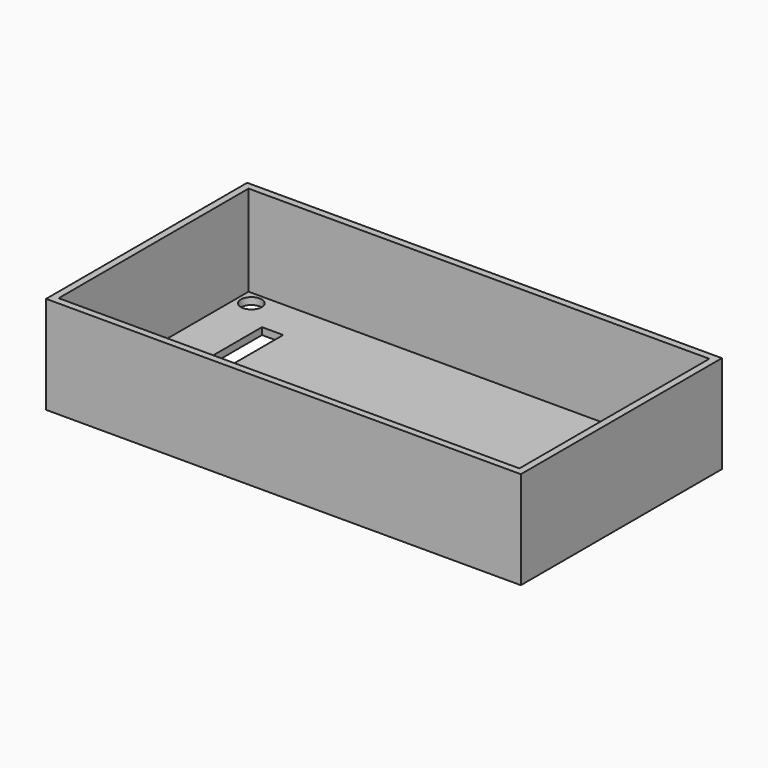
from build123d import *

# Parameters (mm, degrees)
SKETCH059_W     = 68
SKETCH059_H     = 36
SKETCH059_W_2   = 3.04
SKETCH059_H_2   = 13.335
PAD040_DEPTH    = 1
SKETCH060_W     = 68
SKETCH060_H     = 36
SKETCH060_W_2   = 66
SKETCH060_H_2   = 34
PAD041_DEPTH    = 13
SKETCH063_R     = 1.5
POCKET011_DEPTH = 1.001


with BuildPart() as part:
    # Sketch059 → Pad040 (new body)
    with BuildSketch(Plane.XY):
        Rectangle(SKETCH059_W, SKETCH059_H)
        with Locations((-24.94, 4.5625)):
            Rectangle(SKETCH059_W_2, SKETCH059_H_2, mode=Mode.SUBTRACT)
    extrude(amount=PAD040_DEPTH)

    # Sketch060 (on Face10 of Pad040) → Pad041 (join)
    with BuildSketch(Plane.XY.offset(1)):
        Rectangle(SKETCH060_W, SKETCH060_H)
        Rectangle(SKETCH060_W_2, SKETCH060_H_2, mode=Mode.SUBTRACT)
    extrude(amount=PAD041_DEPTH)

    # Sketch063 (on Face15 of Pad041) → Pocket011 (cut, through all)
    with BuildSketch(Plane.XY.offset(1)):
        with Locations((-31, 15)):
            Circle(SKETCH063_R)
        with Locations((31, 15)):
            Circle(SKETCH063_R)
        with Locations((31, -15)):
            Circle(SKETCH063_R)
        with Locations((-31, -15)):
            Circle(SKETCH063_R)
    extrude(amount=-POCKET011_DEPTH, mode=Mode.SUBTRACT)


solid = part.part
